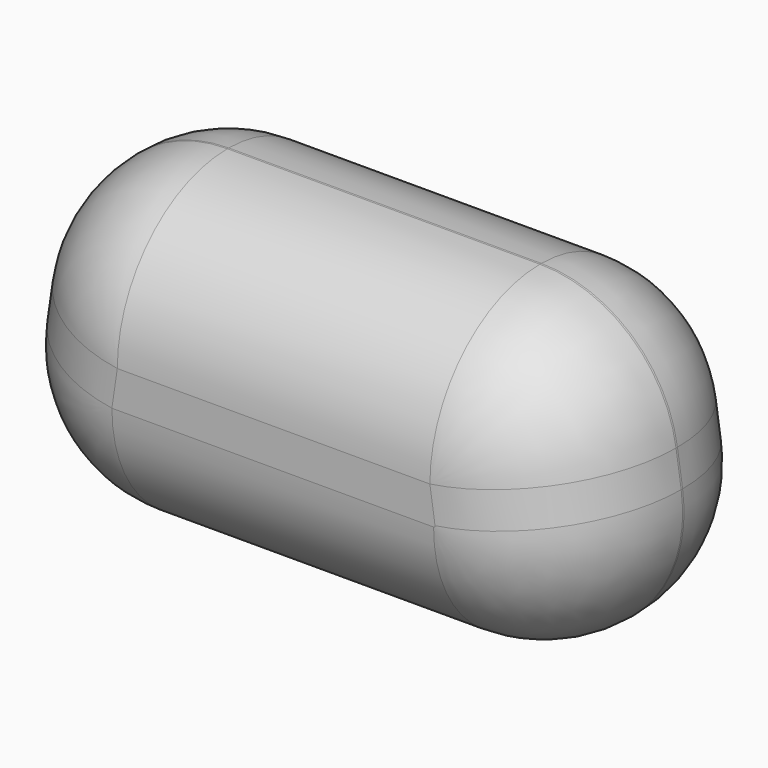
from build123d import *

# Parameters (mm, degrees)
PAD001_DEPTH = 150
FILLET002_R  = 75
FILLET003_R  = 74


with BuildPart() as part:
    # Sketch009 → Pad001 (new body)
    with BuildSketch(Plane.XZ):
        with BuildLine():
            Line((-85.222763, 170), (85.222763, 170))
            ThreePointArc((159.424699, 105.912049), (134.246208, 151.760037), (85.222763, 170))
            Line((162.229991, 86.83606), (159.424699, 105.912049))
            ThreePointArc((87.229991, 0), (144.6005, 26.255941), (162.229991, 86.83606))
            Line((87.229991, 0), (-88.16394, 0))
            ThreePointArc((-162.365875, 85.912049), (-144.923977, 25.976555), (-88.16394, 0))
            Line((-159.424699, 105.912049), (-162.365875, 85.912049))
            ThreePointArc((-85.222763, 170), (-134.246208, 151.760037), (-159.424699, 105.912049))
        make_face()
    extrude(amount=PAD001_DEPTH)

    # Fillet002
    fillet002_edges = [part.edges().sort_by_distance(p)[0] for p in [
        (-134.246208, -150, 151.760037),
        (0, -150, 170),
        (134.246208, -150, 151.760037),
        (160.827345, -150, 96.374055),
        (144.6005, -150, 26.255941),
        (-0.466974, -150, 0),
        (-144.923977, -150, 25.976555),
        (-160.895287, -150, 95.912049),
    ]]
    fillet(fillet002_edges, radius=FILLET002_R)

    # Fillet003
    fillet003_edges = [part.edges().sort_by_distance(p)[0] for p in [
        (-134.246208, 0, 151.760037),
        (0, 0, 170),
        (134.246208, 0, 151.760037),
        (160.827345, 0, 96.374055),
        (144.6005, 0, 26.255941),
        (-0.466974, 0, 0),
        (-144.923977, 0, 25.976555),
        (-160.895287, 0, 95.912049),
    ]]
    fillet(fillet003_edges, radius=FILLET003_R)


solid = part.part
